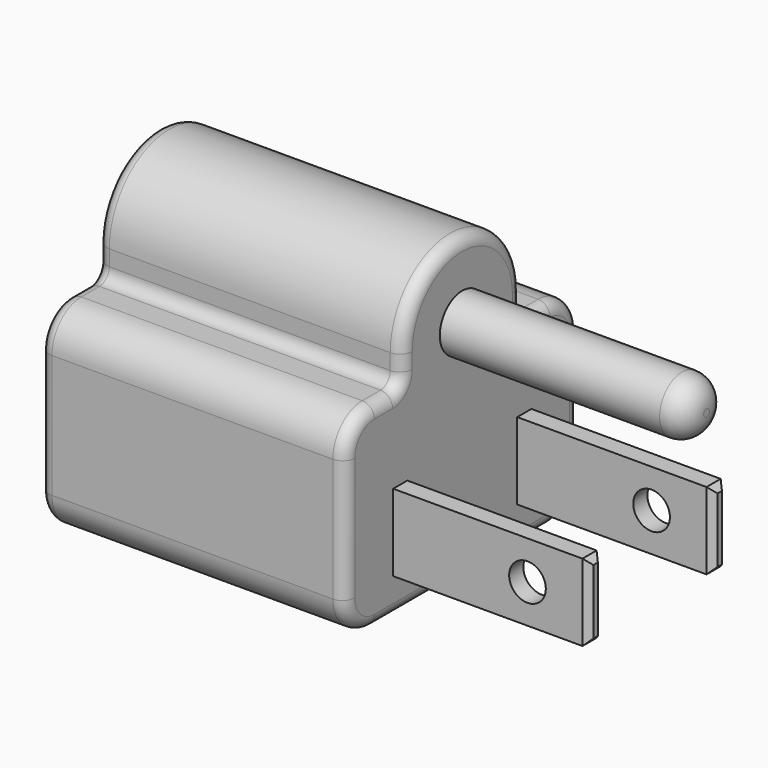
from build123d import *

# Parameters (mm, degrees)
F1_DEPTH = 12.5
F2_W     = 1.45
F2_H     = 6.3
F2_R     = 2.3
F3_DEPTH = 28.5
F4_R     = 1.5
F5_DEPTH = 12.5
F6_SIZE  = 0.5
F7_R     = 2.3
F8_DEPTH = 4
F9_R     = 2
F10_R    = 1


with BuildPart() as f1:
    # F0 (on Right) → F1 (new body, symmetric)
    with BuildSketch(Plane.YZ):
        with BuildLine():
            Line((-9, -12.25), (9, -12.25))
            ThreePointArc((9, -12.25), (11.12132, -11.37132), (12, -9.25))
            Line((12, -9.25), (12, 0.825))
            ThreePointArc((12, 0.825), (11.12132, 2.94632), (9, 3.825))
            Line((9, 3.825), (6.125, 3.825))
            Line((6.125, 3.825), (6.125, 6.125))
            ThreePointArc((6.125, 6.125), (0, 12.25), (-6.125, 6.125))
            Line((-6.125, 6.125), (-6.125, 3.825))
            Line((-6.125, 3.825), (-9, 3.825))
            ThreePointArc((-9, 3.825), (-11.12132, 2.94632), (-12, 0.825))
            Line((-12, 0.825), (-12, -9.25))
            ThreePointArc((-12, -9.25), (-11.12132, -11.37132), (-9, -12.25))
        make_face()
    extrude(amount=F1_DEPTH, both=True)

    # F2 (on Right) → F3 (join)
    with BuildSketch(Plane.YZ):
        with Locations((-6.35, -6.125)):
            Rectangle(F2_W, F2_H)
        with Locations((6.35, -6.125)):
            Rectangle(F2_W, F2_H)
        with Locations((0, 6.125)):
            Circle(F2_R)
    extrude(amount=F3_DEPTH)

    # F4 (on Front) → F5 (cut, symmetric)
    with BuildSketch(Plane.XZ):
        with Locations((23.5, -6.125)):
            Circle(F4_R)
    extrude(amount=F5_DEPTH, both=True, mode=Mode.SUBTRACT)

    # F6
    f6_edges = [f1.edges().sort_by_distance(p)[0] for p in [
        (28.5, -7.075, -6.125),
        (28.5, -6.35, -9.275),
        (28.5, -5.625, -6.125),
        (28.5, -6.35, -2.975),
        (28.5, 5.625, -6.125),
        (28.5, 6.35, -9.275),
        (28.5, 7.075, -6.125),
        (28.5, 6.35, -2.975),
    ]]
    chamfer(f6_edges, length=F6_SIZE)

    # F7 (on face) → F8 (join)
    with BuildSketch(Plane.YZ.offset(28.5)):
        with Locations((0, 6.125)):
            Circle(F7_R)
    extrude(amount=F8_DEPTH)

    # F9
    f9_edges = [f1.edges().sort_by_distance(p)[0] for p in [
        (32.5, -2.3, 6.125),
    ]]
    fillet(f9_edges, radius=F9_R)

    # F10
    f10_edges = [f1.edges().sort_by_distance(p)[0] for p in [
        (12.5, 0, 12.25),
        (12.5, 7.5625, 3.825),
        (-12.5, 11.12132, -11.37132),
        (-12.5, 0, 12.25),
        (0, -6.125, 3.825),
        (0, 6.125, 3.825),
    ]]
    fillet(f10_edges, radius=F10_R)


solid = f1.part
